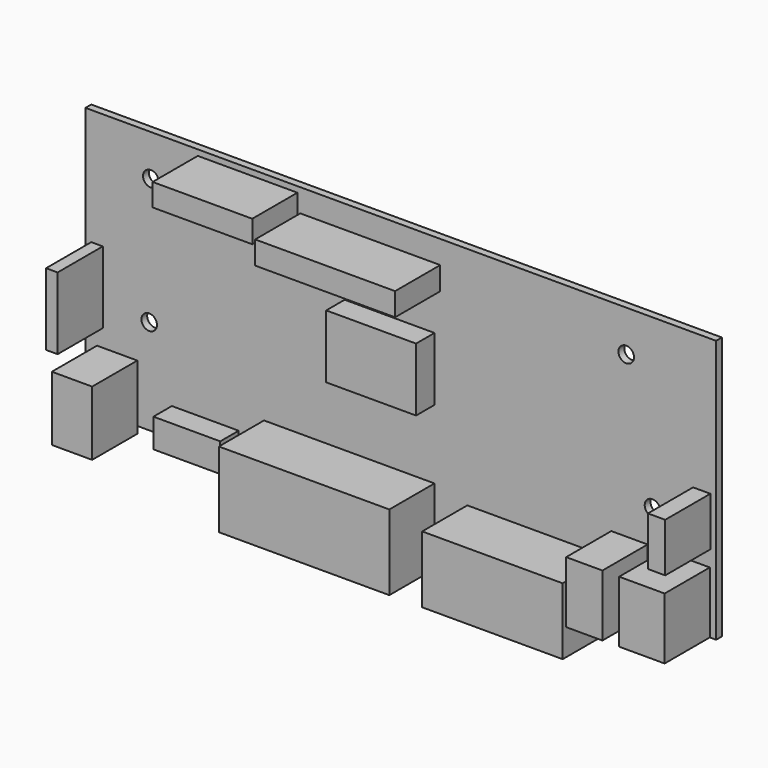
from build123d import *

# Parameters (mm, degrees)
F0_W     = 139.065
F0_H     = 58.039
F0_R     = 1.7145
F1_DEPTH = 1.6002
F2_W     = 8.001
F2_H     = 13.589
F2_W_2   = 10.033
F2_W_3   = 30.861
F2_H_2   = 5.08
F2_W_4   = 21.971
F2_H_3   = 4.953
F2_W_5   = 2.54
F2_H_4   = 15.875
F2_W_6   = 37.592
F2_H_5   = 6.477
F2_W_7   = 30.988
F2_W_8   = 3.81
F2_H_6   = 10.795
F2_H_7   = 10.16
F2_H_8   = 8.255
F2_W_9   = 8.89
F2_H_9   = 1.524
F2_H_10  = 12.7
F3_DEPTH = 12.446
F2_W_10  = 19.812
F2_H_11  = 13.97
F2_W_11  = 14.732
F2_H_12  = 6.35
F4_DEPTH = 5.08


with BuildPart() as f1:
    # F0 (on Front) → F1 (new body)
    with BuildSketch(Plane.XZ):
        with Locations((69.5325, 29.0195)):
            Rectangle(F0_W, F0_H)
        with Locations((14.0462, 21.0058)):
            Circle(F0_R, mode=Mode.SUBTRACT)
        with Locations((125.0315, 21.0185)):
            Circle(F0_R, mode=Mode.SUBTRACT)
        with Locations((14.4145, 48.9585)):
            Circle(F0_R, mode=Mode.SUBTRACT)
        with Locations((119.2403, 48.9458)):
            Circle(F0_R, mode=Mode.SUBTRACT)
    extrude(amount=F1_DEPTH)

    # F2 (on face) → F3 (join)
    with BuildSketch(Plane.XZ.offset(1.6002)):
        with Locations((119.9515, 6.7945)):
            Rectangle(F2_W, F2_H)
        with Locations((132.6515, 6.7945)):
            Rectangle(F2_W_2, F2_H)
        with Locations((62.8015, 50.419)):
            Rectangle(F2_W_3, F2_H_2)
        with Locations((35.7505, 54.2925)):
            Rectangle(F2_W_4, F2_H_3)
        with Locations((2.54, 24.4475)):
            Rectangle(F2_W_5, F2_H_4)
        with Locations((58.166, -3.2385)):
            Rectangle(F2_W_6, F2_H_5)
        with Locations((99.695, -3.2385)):
            Rectangle(F2_W_7, F2_H_5)
        with Locations((135.89, 22.5425)):
            Rectangle(F2_W_8, F2_H_6)
        with Locations((58.166, 5.08)):
            Rectangle(F2_W_6, F2_H_7)
        with Locations((99.695, 4.1275)):
            Rectangle(F2_W_7, F2_H_8)
        with Locations((6.985, -0.762)):
            Rectangle(F2_W_9, F2_H_9)
        with Locations((6.985, 6.35)):
            Rectangle(F2_W_9, F2_H_10)
    extrude(amount=F3_DEPTH)

    # F2 (on face) → F4 (join)
    with BuildSketch(Plane.XZ.offset(1.6002)):
        with Locations((67.056, 32.385)):
            Rectangle(F2_W_10, F2_H_11)
        with Locations((26.416, 3.175)):
            Rectangle(F2_W_11, F2_H_12)
    extrude(amount=F4_DEPTH)


solid = f1.part
